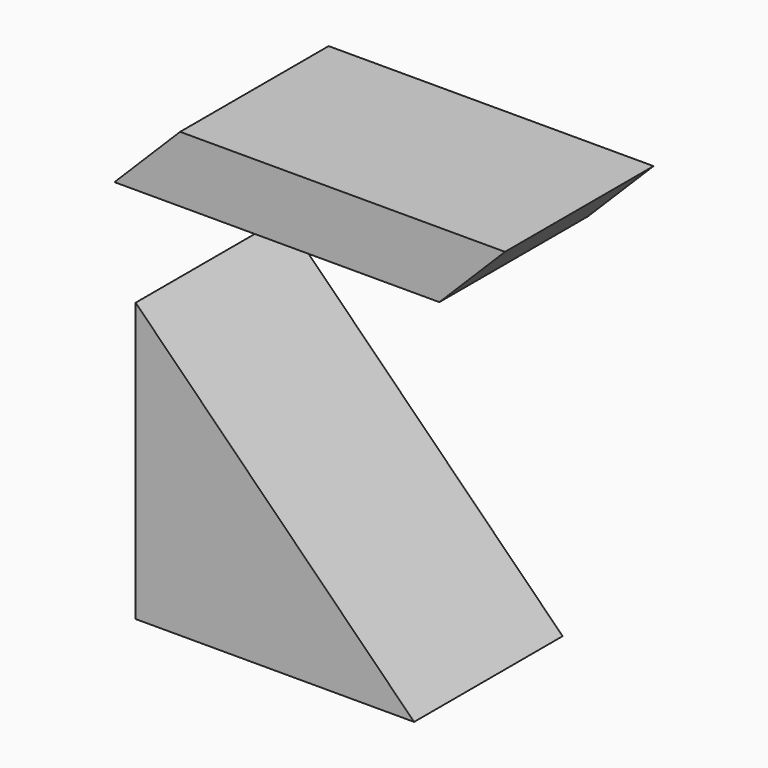
from build123d import *

# Parameters (mm, degrees)
F2_DEPTH = 40


with BuildPart() as f2:
    # F1 (on Front) + F0 (on Front) → F2 (new body)
    with BuildSketch(Plane.XZ):
        Polygon((0.242183, -64.961628), (-59.757817, -4.961628), (-59.757817, -64.961628), align=None)
    with BuildSketch(Plane.XZ):
        Polygon((-50.173509, 30.569221), (-64.315644, 16.427085), (5.684356, 16.427085), (19.826491, 30.569221), align=None)
    extrude(amount=F2_DEPTH)


solid = f2.part
